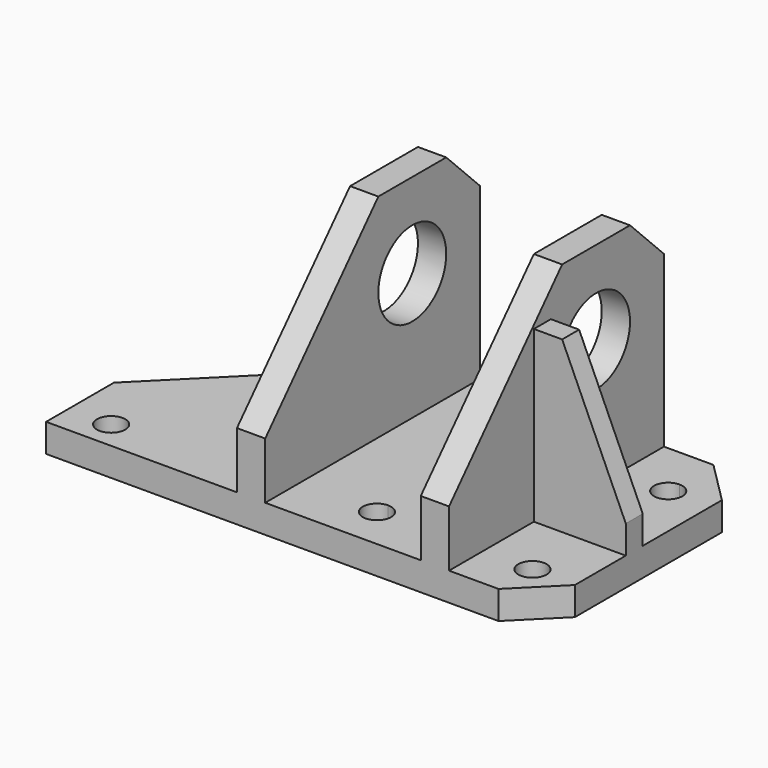
from build123d import *

# Parameters (mm, degrees)
F1_DEPTH  = 12.7
F3_DEPTH  = 25.4
F4_W      = 12.7
F4_H      = 120.65
F5_DEPTH  = 95.25
F7_DEPTH  = 25.4
F9_DEPTH  = 25.4
F11_DEPTH = 25.4
F12_W     = 41.275
F12_H     = 9.525
F13_DEPTH = 76.2
F15_DEPTH = 25.4
F17_DEPTH = 25.4
F19_DEPTH = 25.4
F21_DEPTH = 25.4
F23_DEPTH = 25.4
F24_R     = 19.05
F25_DEPTH = 25.4
F27_DEPTH = 25.4


with BuildPart() as f1:
    # F0 (on Top) → F1 (new body)
    with BuildSketch(Plane.XY):
        Polygon((20.463030386, 81.1401112616), (-62.086969614, -1.4098887384), (-62.086969614, -39.5098887384), (141.113030386, -39.5098887384), (160.163030386, -20.4598887384), (160.163030386, 81.1401112616), (71.263030386, 81.1401112616), (36.338030386, 81.1401112616), align=None)
    extrude(amount=F1_DEPTH)

    # F2 (on face) → F3 (cut)
    with BuildSketch(Plane.XY.offset(12.7)):
        Polygon((160.163030386, 62.0901112616), (160.163030386, 81.1401112616), (141.113030386, 81.1401112616), align=None)
    extrude(amount=-F3_DEPTH, mode=Mode.SUBTRACT)

    # F4 (on face) → F5 (join)
    with BuildSketch(Plane.XY.offset(12.7)):
        with Locations((112.538030386, 20.8151112616)):
            Rectangle(F4_W, F4_H)
        with Locations((29.988030386, 20.8151112616)):
            Rectangle(F4_W, F4_H)
    extrude(amount=F5_DEPTH)

    # F6 (on face) → F7 (cut)
    with BuildSketch(Plane(origin=(23.638030386, 0, 0), x_dir=(0, -1, 0), z_dir=(-1, 0, 0))):
        Polygon((-62.0901112616, 107.95), (-81.1401112616, 107.95), (-81.1401112616, 88.9), align=None)
    extrude(amount=-F7_DEPTH, mode=Mode.SUBTRACT)

    # F8 (on face) → F9 (cut)
    with BuildSketch(Plane(origin=(23.638030386, 0, 0), x_dir=(0, -1, 0), z_dir=(-1, 0, 0))):
        Polygon((39.5098887384, 107.95), (-23.9901112616, 107.95), (39.5098887384, 38.1), align=None)
    extrude(amount=-F9_DEPTH, mode=Mode.SUBTRACT)

    # F10 (on face) → F11 (cut)
    with BuildSketch(Plane.YZ.offset(118.888030386)):
        Polygon((-39.5098887384, 38.1), (23.9901112616, 107.95), (-39.5098887384, 107.95), align=None)
        Polygon((62.0901112616, 107.95), (81.1401112616, 88.9), (81.1401112616, 107.95), align=None)
    extrude(amount=-F11_DEPTH, mode=Mode.SUBTRACT)

    # F12 (on face) → F13 (join)
    with BuildSketch(Plane.XY.offset(12.7)):
        with Locations((139.525530386, 12.8776112616)):
            Rectangle(F12_W, F12_H)
    extrude(amount=F13_DEPTH)

    # F14 (on face) → F15 (cut)
    with BuildSketch(Plane.XZ.offset(-8.1151112616)):
        Polygon((160.163030386, 88.9), (131.588030386, 88.9), (160.163030386, 25.4), align=None)
    extrude(amount=-F15_DEPTH, mode=Mode.SUBTRACT)

    # F16 (on face) → F17 (cut)
    with BuildSketch(Plane.XY.offset(12.7)):
        with BuildLine():
            ThreePointArc((-49.386969614, -26.8098887384), (-43.036969614, -33.1598887384), (-36.686969614, -26.8098887384))
            ThreePointArc((-36.686969614, -26.8098887384), (-43.036969614, -20.4598887384), (-49.386969614, -26.8098887384))
        make_face()
    extrude(amount=-F17_DEPTH, mode=Mode.SUBTRACT)

    # F18 (on face) → F19 (cut)
    with BuildSketch(Plane.XY.offset(12.7)):
        with BuildLine():
            ThreePointArc((141.113030386, -26.8098887384), (145.6031584465, -24.9500167989), (147.463030386, -20.4598887384))
            ThreePointArc((147.463030386, -20.4598887384), (136.6229023254, -15.9697606779), (141.113030386, -26.8098887384))
        make_face()
    extrude(amount=-F19_DEPTH, mode=Mode.SUBTRACT)

    # F20 (on face) → F21 (cut)
    with BuildSketch(Plane.XY.offset(12.7)):
        with BuildLine():
            ThreePointArc((147.463030386, 55.7401112616), (145.6031584465, 60.2302393221), (141.113030386, 62.0901112616))
            ThreePointArc((141.113030386, 62.0901112616), (136.6229023254, 51.2499832011), (147.463030386, 55.7401112616))
        make_face()
    extrude(amount=-F21_DEPTH, mode=Mode.SUBTRACT)

    # F22 (on face) → F23 (cut)
    with BuildSketch(Plane.XY.offset(12.7)):
        with BuildLine():
            ThreePointArc((71.263030386, -14.1098887384), (64.913030386, -20.4598887384), (71.263030386, -26.8098887384))
            Line((71.263030386, -26.8098887384), (71.263030386, -20.4598887384))
            Line((71.263030386, -20.4598887384), (71.263030386, -14.1098887384))
        make_face()
        with BuildLine():
            ThreePointArc((77.613030386, 55.7401112616), (66.7729023254, 60.2302393221), (71.263030386, 49.3901112616))
            ThreePointArc((71.263030386, 49.3901112616), (75.7531584465, 51.2499832011), (77.613030386, 55.7401112616))
        make_face()
        with BuildLine():
            Line((71.263030386, -20.4598887384), (71.263030386, -26.8098887384))
            ThreePointArc((71.263030386, -26.8098887384), (75.7531584465, -24.9500167989), (77.613030386, -20.4598887384))
            ThreePointArc((77.613030386, -20.4598887384), (75.7531584465, -15.9697606779), (71.263030386, -14.1098887384))
            Line((71.263030386, -14.1098887384), (71.263030386, -20.4598887384))
        make_face()
    extrude(amount=-F23_DEPTH, mode=Mode.SUBTRACT)

    # F24 (on face) → F25 (cut)
    with BuildSketch(Plane.YZ.offset(118.888030386)):
        with Locations((43.0320575833, 69.85)):
            Circle(F24_R)
    extrude(amount=-F25_DEPTH, mode=Mode.SUBTRACT)

    # F26 (on face) → F27 (cut)
    with BuildSketch(Plane(origin=(23.638030386, 0, 0), x_dir=(0, -1, 0), z_dir=(-1, 0, 0))):
        with BuildLine():
            ThreePointArc((-62.0901112616, 69.85), (-43.0401112616, 50.8), (-23.9901112616, 69.85))
            ThreePointArc((-23.9901112616, 69.85), (-43.0401112616, 88.9), (-62.0901112616, 69.85))
        make_face()
    extrude(amount=-F27_DEPTH, mode=Mode.SUBTRACT)


solid = f1.part
